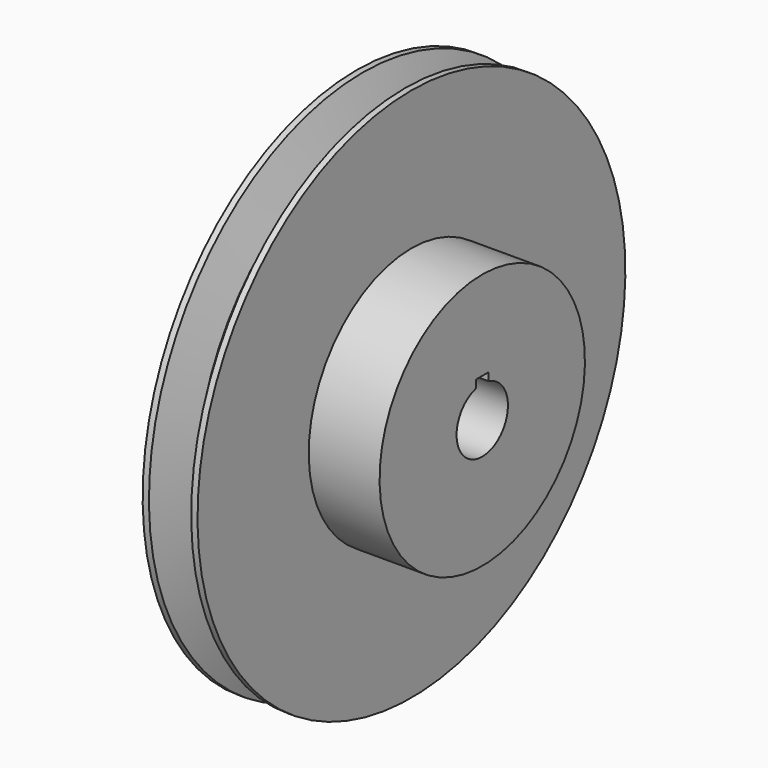
from build123d import *

# Parameters (mm, degrees)
F3_DEPTH      = 8.1417
F3_DEPTH_BACK = 29.16655


with BuildPart() as f1:
    # F0 (on Front) → F1 (revolve)
    with BuildSketch(Plane.XZ):
        Polygon((-8.1407, 9.525), (8.1407, 9.525), (29.16555, 9.525), (29.16555, 38.1), (8.1407, 38.1), (8.1407, 79.375), (6.2738, 79.375), (2.4003, 66.675), (-2.4003, 66.675), (-6.2738, 79.375), (-8.1407, 79.375), align=None)
    revolve(axis=Axis((-25.9663593024, 0, 0), (-1, 0, 0)))

    # F2 (on Right) → F3 (cut, two sides)
    with BuildSketch(Plane.YZ) as f3_sk:
        with BuildLine():
            Line((2.38125, 11.5951), (-2.38125, 11.5951))
            Line((-2.38125, 11.5951), (-2.38125, 9.2225415932))
            ThreePointArc((-2.38125, 9.2225415932), (0, -9.525), (2.38125, 9.2225415932))
            Line((2.38125, 9.2225415932), (2.38125, 11.5951))
        make_face()
    extrude(amount=-F3_DEPTH, mode=Mode.SUBTRACT)
    extrude(f3_sk.sketch, amount=F3_DEPTH_BACK, mode=Mode.SUBTRACT)


solid = f1.part
